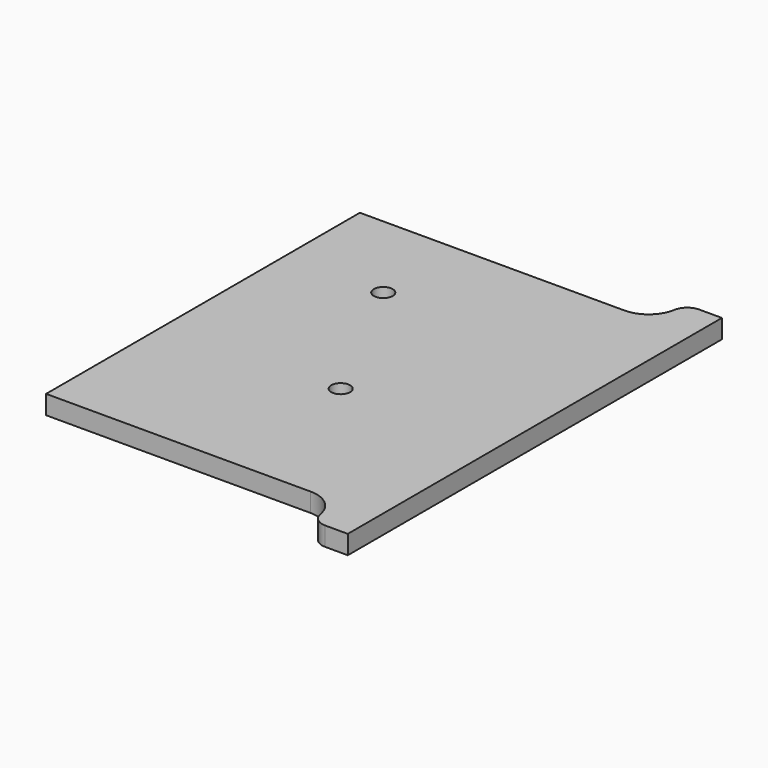
from build123d import *

# Parameters (mm, degrees)
F0_W     = 6.35
F0_H     = 6.35
F1_DEPTH = 3.175
F0_R     = 1.5875
F2_DEPTH = 3.175
F3_R     = 2.54
F4_R     = 5.08


with BuildPart() as f1:
    # F0 (on Top) → F1 (new body)
    with BuildSketch(Plane.XY):
        Polygon((60.1484737206, 7.2537393374), (10.6184737206, 7.2537393374), (10.6184737206, -58.7862606626), (60.1484737206, -58.7862606626), (66.4984737206, -58.7862606626), (66.4984737206, 7.2537393374), align=None)
        with BuildLine():
            ThreePointArc((22.7113279829, -20.4435077931), (20.0093369897, 1.8826225402), (39.9210240364, -8.5711600259))
            ThreePointArc((39.9210240364, -8.5711600259), (39.8123227124, -10.2292304863), (39.4880795243, -11.8589175682))
            ThreePointArc((39.4880795243, -11.8589175682), (55.0511803081, -18.0157023959), (61.5383527356, -33.4440107709))
            ThreePointArc((61.5383527356, -33.4440107709), (33.0934006719, -53.9168643142), (22.7113279829, -20.4435077931))
        make_face(mode=Mode.SUBTRACT)
        with Locations((63.3234737206, 10.4287393374)):
            Rectangle(F0_W, F0_H)
        with Locations((63.3234737206, -61.9612606626)):
            Rectangle(F0_W, F0_H)
    extrude(amount=F1_DEPTH)

    # F0 (on Top) → F2 (join)
    with BuildSketch(Plane.XY):
        Polygon((60.1484737206, 7.2537393374), (10.6184737206, 7.2537393374), (10.6184737206, -58.7862606626), (60.1484737206, -58.7862606626), (66.4984737206, -58.7862606626), (66.4984737206, 7.2537393374), align=None)
        with BuildLine():
            ThreePointArc((22.7113279829, -20.4435077931), (20.0093369897, 1.8826225402), (39.9210240364, -8.5711600259))
            ThreePointArc((39.9210240364, -8.5711600259), (39.8123227124, -10.2292304863), (39.4880795243, -11.8589175682))
            ThreePointArc((39.4880795243, -11.8589175682), (55.0511803081, -18.0157023959), (61.5383527356, -33.4440107709))
            ThreePointArc((61.5383527356, -33.4440107709), (33.0934006719, -53.9168643142), (22.7113279829, -20.4435077931))
        make_face(mode=Mode.SUBTRACT)
        with BuildLine():
            ThreePointArc((39.4880795243, -11.8589175682), (39.8123227124, -10.2292304863), (39.9210240364, -8.5711600259))
            ThreePointArc((39.9210240364, -8.5711600259), (20.0093369897, 1.8826225402), (22.7113279829, -20.4435077931))
            ThreePointArc((22.7113279829, -20.4435077931), (26.0598460264, -16.9141141774), (30.1135988267, -14.2240806058))
            ThreePointArc((30.1135988267, -14.2240806058), (34.6667436153, -12.5100024328), (39.4880795243, -11.8589175682))
        make_face()
        with BuildLine():
            ThreePointArc((33.5710240364, -8.5711600259), (32.6381427317, -11.8843646741), (30.1135988267, -14.2240806058))
            ThreePointArc((30.1135988267, -14.2240806058), (21.8039053411, -5.2579553777), (33.5710240364, -8.5711600259))
        make_face(mode=Mode.SUBTRACT)
        with BuildLine():
            ThreePointArc((30.1135988267, -14.2240806058), (26.0598460264, -16.9141141774), (22.7113279829, -20.4435077931))
            ThreePointArc((22.7113279829, -20.4435077931), (33.0061734451, -19.8770012736), (39.4880795243, -11.8589175682))
            ThreePointArc((39.4880795243, -11.8589175682), (34.6667436153, -12.5100024328), (30.1135988267, -14.2240806058))
        make_face()
        with BuildLine():
            ThreePointArc((39.4880795243, -11.8589175682), (33.0061734451, -19.8770012736), (22.7113279829, -20.4435077931))
            ThreePointArc((22.7113279829, -20.4435077931), (33.0934006719, -53.9168643142), (61.5383527356, -33.4440107709))
            ThreePointArc((61.5383527356, -33.4440107709), (55.0511803081, -18.0157023959), (39.4880795243, -11.8589175682))
        make_face()
        with Locations((39.9483527356, -33.4440107709)):
            Circle(F0_R, mode=Mode.SUBTRACT)
        with BuildLine():
            ThreePointArc((33.5710240364, -8.5711600259), (21.8039053411, -5.2579553777), (30.1135988267, -14.2240806058))
            ThreePointArc((30.1135988267, -14.2240806058), (32.6381427317, -11.8843646741), (33.5710240364, -8.5711600259))
        make_face()
        with Locations((27.2210240364, -8.5711600259)):
            Circle(F0_R, mode=Mode.SUBTRACT)
    extrude(amount=F2_DEPTH)

    # F3
    f3_edges = [f1.edges().sort_by_distance(p)[0] for p in [
        (60.148474, -65.136261, 1.5875),
        (60.148474, 13.603739, 1.5875),
    ]]
    fillet(f3_edges, radius=F3_R)

    # F4
    f4_edges = [f1.edges().sort_by_distance(p)[0] for p in [
        (60.148474, -58.786261, 1.5875),
        (60.148474, 7.253739, 1.5875),
    ]]
    fillet(f4_edges, radius=F4_R)


solid = f1.part
